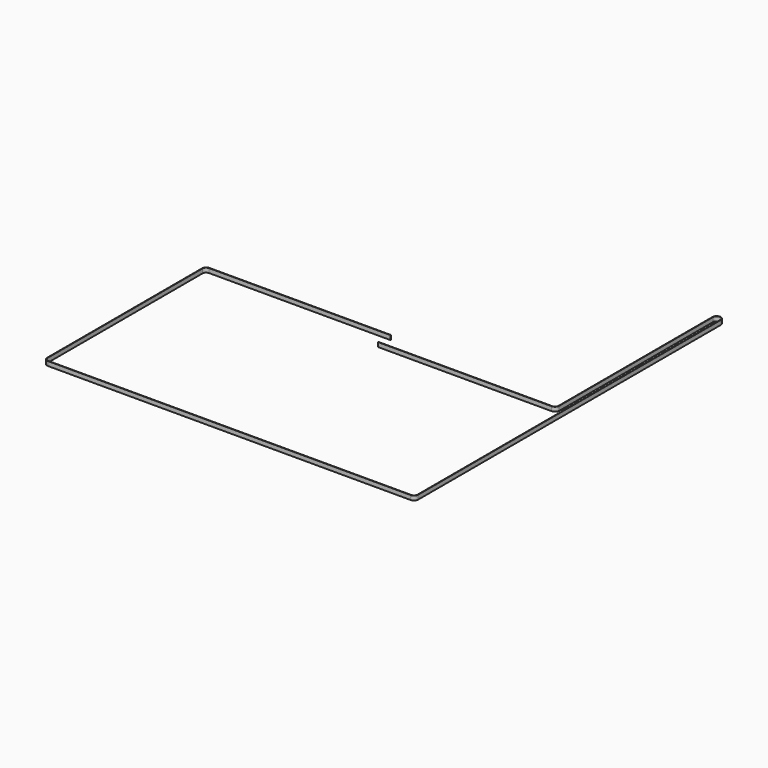
from build123d import *

# Parameters (mm, degrees)
F1_DEPTH = 6


with BuildPart() as f1:
    # F0 (on Top) → F1 (new body)
    with BuildSketch(Plane.XY):
        with BuildLine():
            ThreePointArc((244.655, 259.59), (249.75, 264.685), (254.845, 259.59))
            Line((254.845, 259.59), (254.845, -261.41))
            ThreePointArc((254.845, -261.41), (253.352709, -265.012709), (249.75, -266.505))
            Line((249.75, -266.505), (-249.75, -266.505))
            ThreePointArc((-249.75, -266.505), (-253.352709, -265.012709), (-254.845, -261.41))
            Line((-254.845, -261.41), (-254.845, 5.09))
            Line((-254.845, 5.09), (-255.475, 5.09))
            Line((-255.475, 5.09), (-255.475, -261.41))
            ThreePointArc((-255.475, -261.41), (-253.798186, -265.458186), (-249.75, -267.135))
            Line((-249.75, -267.135), (249.75, -267.135))
            ThreePointArc((249.75, -267.135), (253.798186, -265.458186), (255.475, -261.41))
            Line((255.475, -261.41), (255.475, 259.59))
            ThreePointArc((255.475, 259.59), (249.75, 265.315), (244.025, 259.59))
            Line((244.025, 259.59), (244.025, -5.09))
            ThreePointArc((244.025, -5.09), (242.532709, -8.692709), (238.93, -10.185))
            Line((238.93, -10.185), (0, -10.185))
            Line((0, -10.185), (0, -10.815))
            Line((0, -10.815), (238.93, -10.815))
            ThreePointArc((238.93, -10.815), (242.978186, -9.138186), (244.655, -5.09))
            Line((244.655, -5.09), (244.655, 259.59))
        make_face()
        with BuildLine():
            Line((-255.475, 5.09), (-254.845, 5.09))
            ThreePointArc((-254.845, 5.09), (-253.352709, 8.692709), (-249.75, 10.185))
            Line((-249.75, 10.185), (0, 10.185))
            Line((0, 10.185), (0, 10.815))
            Line((0, 10.815), (-249.75, 10.815))
            ThreePointArc((-249.75, 10.815), (-253.798186, 9.138186), (-255.475, 5.09))
        make_face()
    extrude(amount=F1_DEPTH)


solid = f1.part
